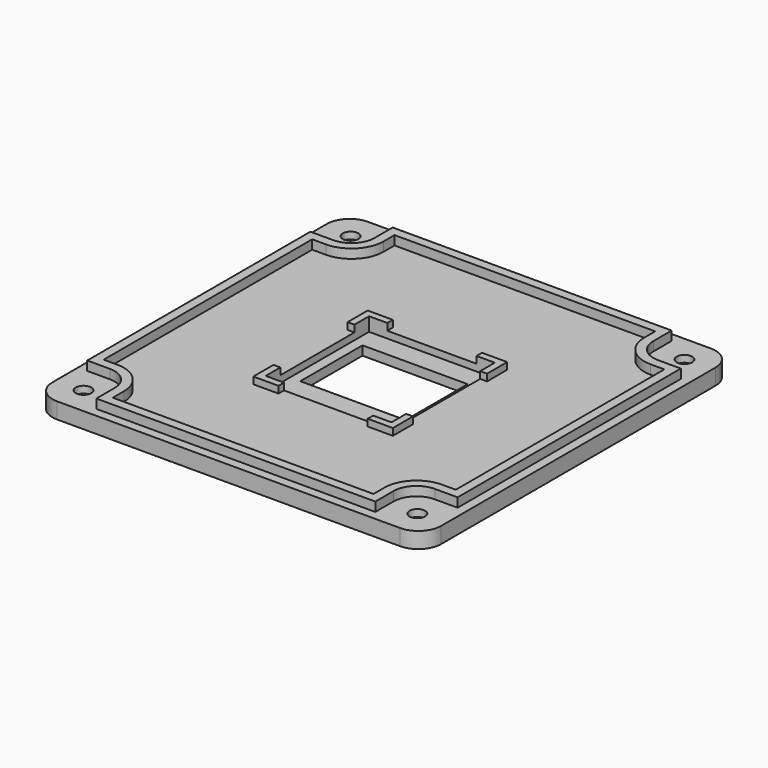
from build123d import *

# Parameters (mm, degrees)
PAD_DEPTH       = 3.5
PAD001_DEPTH    = 2
SKETCH002_R     = 1.7
POCKET_DEPTH    = 5
SKETCH003_W     = 23
SKETCH003_H     = 17
POCKET001_DEPTH = 5
SKETCH004_W     = 27.5
SKETCH004_H     = 28.2448
POCKET002_DEPTH = 1.5
PAD002_DEPTH    = 1.5
SKETCH006_R     = 2.5
POCKET003_DEPTH = 2


with BuildPart() as part:
    # Sketch → Pad (new body)
    with BuildSketch(Plane.XY):
        with BuildLine():
            Line((-37.5, 42.5), (37.5, 42.5))
            ThreePointArc((42.5, 37.5), (41.035534, 41.035534), (37.5, 42.5))
            Line((42.5, 37.5), (42.5, -37.5))
            ThreePointArc((37.5, -42.5), (41.035534, -41.035534), (42.5, -37.5))
            Line((37.5, -42.5), (-37.5, -42.5))
            ThreePointArc((-42.5, -37.5), (-41.035534, -41.035534), (-37.5, -42.5))
            Line((-42.5, -37.5), (-42.5, 37.5))
            ThreePointArc((-37.5, 42.5), (-41.035534, 41.035534), (-42.5, 37.5))
        make_face()
    extrude(amount=PAD_DEPTH)

    # Sketch001 (on Face10 of Pad) → Pad001 (join)
    with BuildSketch(Plane.XY.offset(3.5)):
        with BuildLine():
            Line((-30.5, 40.5), (30.5, 40.5))
            Line((30.5, 40.5), (30.5, 35.5))
            ThreePointArc((30.5, 35.5), (31.964466, 31.964466), (35.5, 30.5))
            Line((35.5, 30.5), (40.5, 30.5))
            Line((40.5, 30.5), (40.5, -30.5))
            Line((40.5, -30.5), (35.5, -30.5))
            ThreePointArc((35.5, -30.5), (31.964466, -31.964466), (30.5, -35.5))
            Line((30.5, -35.5), (30.5, -40.5))
            Line((30.5, -40.5), (-30.5, -40.5))
            Line((-30.5, -40.5), (-30.5, -35.5))
            ThreePointArc((-30.5, -35.5), (-31.964466, -31.964466), (-35.5, -30.5))
            Line((-35.5, -30.5), (-40.5, -30.5))
            Line((-40.5, -30.5), (-40.5, 30.5))
            Line((-40.5, 30.5), (-35.5, 30.5))
            ThreePointArc((-35.5, 30.5), (-31.964466, 31.964466), (-30.5, 35.5))
            Line((-30.5, 35.5), (-30.5, 40.5))
        make_face()
        with BuildLine():
            Line((-28.5, 38.5), (28.5, 38.5))
            Line((28.5, 38.5), (28.5, 35.5))
            ThreePointArc((28.5, 35.5), (30.550253, 30.550253), (35.5, 28.5))
            Line((35.5, 28.5), (38.5, 28.5))
            Line((38.5, 28.5), (38.5, -28.5))
            Line((38.5, -28.5), (35.5, -28.5))
            ThreePointArc((35.5, -28.5), (30.550253, -30.550253), (28.5, -35.5))
            Line((28.5, -35.5), (28.5, -38.5))
            Line((28.5, -38.5), (-28.5, -38.5))
            Line((-28.5, -38.5), (-28.5, -35.5))
            ThreePointArc((-28.5, -35.5), (-30.550253, -30.550253), (-35.5, -28.5))
            Line((-35.5, -28.5), (-38.5, -28.5))
            Line((-38.5, -28.5), (-38.5, 28.5))
            Line((-38.5, 28.5), (-35.5, 28.5))
            ThreePointArc((-35.5, 28.5), (-30.550253, 30.550253), (-28.5, 35.5))
            Line((-28.5, 35.5), (-28.5, 38.5))
        make_face(mode=Mode.SUBTRACT)
    extrude(amount=PAD001_DEPTH)

    # Sketch002 (on Face5 of Pad001) → Pocket (cut)
    with BuildSketch(Plane.XY.offset(3.5)):
        with Locations((-36.5, 36.5)):
            Circle(SKETCH002_R)
        with Locations((36.5, 36.5)):
            Circle(SKETCH002_R)
        with Locations((-36.5, -36.5)):
            Circle(SKETCH002_R)
        with Locations((36.5, -36.5)):
            Circle(SKETCH002_R)
    extrude(amount=-POCKET_DEPTH, mode=Mode.SUBTRACT)

    # Sketch003 (on Face48 of Pocket) → Pocket001 (cut)
    with BuildSketch(Plane.XY.offset(3.5)):
        Rectangle(SKETCH003_W, SKETCH003_H)
    extrude(amount=-POCKET001_DEPTH, mode=Mode.SUBTRACT)

    # Sketch004 (on Face35 of Pocket001) → Pocket002 (cut)
    with BuildSketch(Plane.XY.offset(3.5)):
        with Locations((0, -1.0224)):
            Rectangle(SKETCH004_W, SKETCH004_H)
    extrude(amount=-POCKET002_DEPTH, mode=Mode.SUBTRACT)

    # Sketch005 (on Face57 of Pocket002) → Pad002 (join)
    with BuildSketch(Plane.XY.offset(3.5)):
        Polygon((-15.25, 14.6), (-15.25, 9.1), (-13.75, 9.1), (-13.75, 13.1), (-9.75, 13.1), (-9.75, 14.6), align=None)
        Polygon((9.75, 13.1), (13.75, 13.1), (13.75, 9.1), (15.25, 9.1), (15.25, 14.6), (9.75, 14.6), align=None)
        Polygon((9.75, -15.1448), (13.75, -15.1448), (13.75, -11.1448), (15.25, -11.1448), (15.25, -16.6448), (9.75, -16.6448), align=None)
        Polygon((-13.75, -11.1448), (-13.75, -15.1448), (-9.75, -15.1448), (-9.75, -16.6448), (-15.25, -16.6448), (-15.25, -11.1448), align=None)
    extrude(amount=PAD002_DEPTH)

    # Sketch006 (on Face4 of Pad002) → Pocket003 (cut)
    with BuildSketch(Plane(origin=(0, 0, 0), x_dir=(1, 0, 0), z_dir=(0, 0, -1))):
        with Locations((-36.5, 36.5)):
            Circle(SKETCH006_R)
        with Locations((36.5, 36.5)):
            Circle(SKETCH006_R)
        with Locations((36.5, -36.5)):
            Circle(SKETCH006_R)
        with Locations((-36.5, -36.5)):
            Circle(SKETCH006_R)
    extrude(amount=-POCKET003_DEPTH, mode=Mode.SUBTRACT)


solid = part.part
